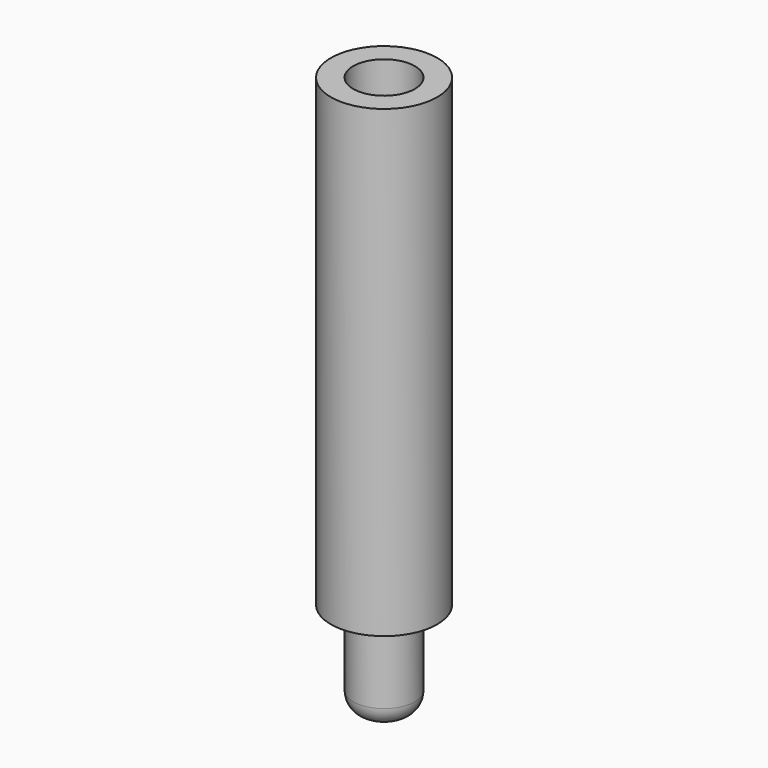
from build123d import *

# Parameters (mm, degrees)
F0_R     = 20.955
F1_DEPTH = 182.88
F2_R     = 12.1285
F3_DEPTH = 37.338
F4_R     = 7.62
F5_R     = 12.1666
F6_DEPTH = 38.1
F7_R     = 7.62


with BuildPart() as f1:
    # F0 (on Top) → F1 (new body)
    with BuildSketch(Plane.XY):
        Circle(F0_R)
    extrude(amount=F1_DEPTH)

    # F2 (on face) → F3 (join)
    with BuildSketch(Plane(origin=(0, 0, 0), x_dir=(1, 0, 0), z_dir=(0, 0, -1))):
        Circle(F2_R)
    extrude(amount=F3_DEPTH)

    # F4
    f4_edges = [f1.edges().sort_by_distance(p)[0] for p in [
        (-12.1285, 0, -37.338),
    ]]
    fillet(f4_edges, radius=F4_R)

    # F5 (on face) → F6 (cut)
    with BuildSketch(Plane.XY.offset(182.88)):
        Circle(F5_R)
    extrude(amount=-F6_DEPTH, mode=Mode.SUBTRACT)

    # F7
    f7_edges = [f1.edges().sort_by_distance(p)[0] for p in [
        (-12.1666, 0, 144.78),
    ]]
    fillet(f7_edges, radius=F7_R)


solid = f1.part
